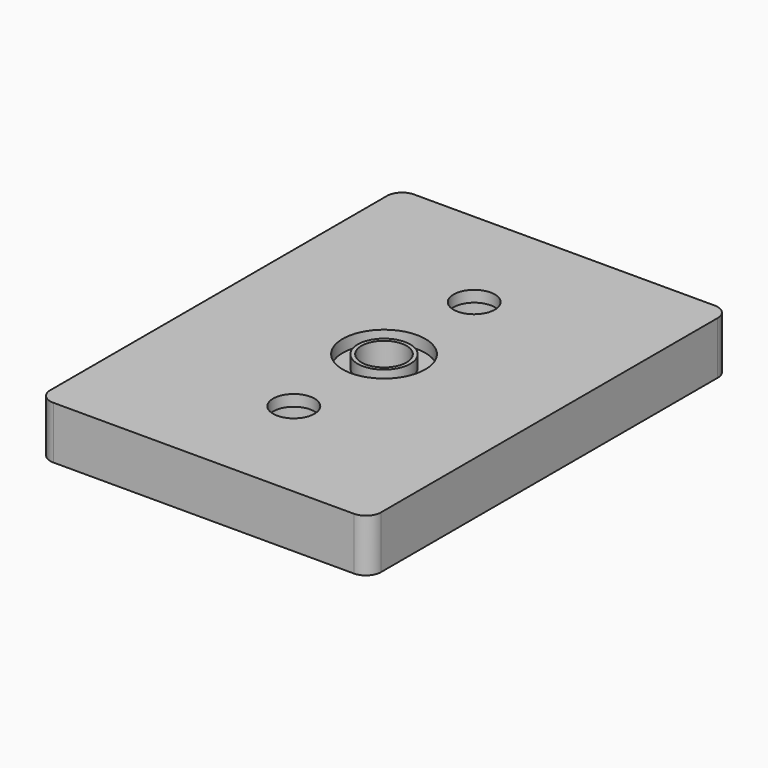
from build123d import *

# Parameters (mm, degrees)
F0_W           = 44
F0_H           = 60
F1_DEPTH       = 7
F2_R           = 2
F3_R           = 3
F4_DEPTH       = 7.001
F5_D           = 5.5
F5_CBORE_D     = 9
F5_CBORE_DEPTH = 5.5
F6_R           = 5.5
F6_R_2         = 3.5
F7_DEPTH       = 1.65


with BuildPart() as f1:
    # F0 (on Top) → F1 (new body)
    with BuildSketch(Plane.XY):
        Rectangle(F0_W, F0_H)
    extrude(amount=F1_DEPTH)

    # F2
    f2_edges = [f1.edges().sort_by_distance(p)[0] for p in [
        (-22, -30, 3.5),
        (22, -30, 3.5),
        (22, 30, 3.5),
        (-22, 30, 3.5),
    ]]
    fillet(f2_edges, radius=F2_R)

    # F3 (on face) → F4 (cut, through all)
    with BuildSketch(Plane(origin=(0, 0, 0), x_dir=(1, 0, 0), z_dir=(0, 0, -1))):
        Circle(F3_R)
    extrude(amount=-F4_DEPTH, mode=Mode.SUBTRACT)

    # F5 (through all)
    with Locations(Plane(origin=(0, 0, 0), x_dir=(1, 0, 0), z_dir=(0, 0, -1))):
        with Locations((0, -15), (0, 15)):
            CounterBoreHole(F5_D / 2, F5_CBORE_D / 2, F5_CBORE_DEPTH)

    # F6 (on face) → F7 (cut)
    with BuildSketch(Plane.XY.offset(7)):
        Circle(F6_R)
        Circle(F6_R_2, mode=Mode.SUBTRACT)
    extrude(amount=-F7_DEPTH, mode=Mode.SUBTRACT)


solid = f1.part
